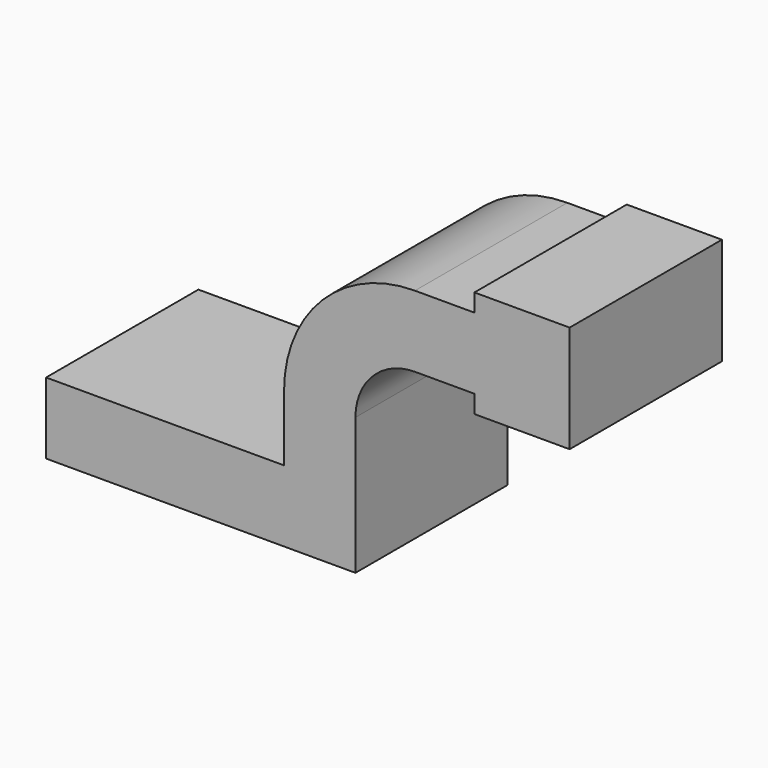
from build123d import *

# Parameters (mm, degrees)
F1_DEPTH = 25.4


with BuildPart() as f1:
    # F0 (on Front) → F1 (new body, symmetric)
    with BuildSketch(Plane.XZ):
        Polygon((-41.275, -9.525), (41.275, -9.525), (41.275, 9.525), (22.225, 9.525), (-41.275, 9.525), align=None)
        with BuildLine():
            Line((22.225, 9.525), (41.275, 9.525))
            Line((41.275, 9.525), (41.275, 27.0002))
            ThreePointArc((41.275, 27.0002), (45.92468, 38.22552), (57.15, 42.8752))
            Line((57.15, 42.8752), (73.025, 42.8752))
            Line((73.025, 42.8752), (73.025, 43.09893))
            Line((73.025, 43.09893), (73.025, 61.9252))
            Line((73.025, 61.9252), (57.15, 61.9252))
            ThreePointArc((57.15, 61.9252), (32.454296, 51.695904), (22.225, 27.0002))
            Line((22.225, 27.0002), (22.225, 9.525))
        make_face()
        Polygon((73.025, 43.09893), (73.025, 42.8752), (73.025, 38.1), (98.425, 38.1), (98.425, 66.675), (73.025, 66.675), (73.025, 61.9252), align=None)
    extrude(amount=F1_DEPTH, both=True)


solid = f1.part
